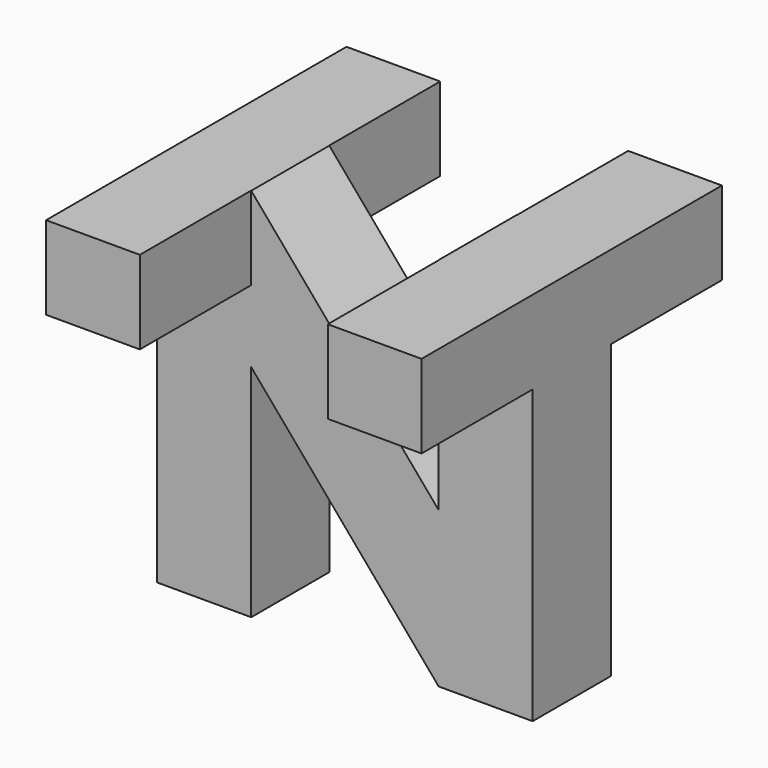
from build123d import *

# Parameters (mm, degrees)
F0_W     = 25.4
F0_H     = 25.4
F1_DEPTH = 25.4
F5_DEPTH = 25.401
F6_DEPTH = 25.401
F7_DEPTH = 25.401


with BuildPart() as f1:
    # F0 (on Top) → F1 (new body)
    with BuildSketch(Plane.XY):
        Rectangle(F0_W, F0_H)
    extrude(amount=F1_DEPTH)

    # F2 (on face) → F5 (intersect, through all)
    with BuildSketch(Plane.XY.offset(25.4)):
        Polygon((-6.357004, 12.7), (-12.7, 12.7), (-12.7, -12.7), (-6.357004, -12.7), (-6.357004, -3.302), (0, -3.302), (6.357004, -3.302), (6.357004, -12.7), (12.7, -12.7), (12.7, 12.7), (6.357004, 12.7), (6.357004, 3.302), (0, 3.302), (-6.357004, 3.302), align=None)
    extrude(amount=-F5_DEPTH, mode=Mode.INTERSECT)

    # F3 (on face) → F6 (intersect, through all)
    with BuildSketch(Plane(origin=(-12.7, 0, 0), x_dir=(0, -1, 0), z_dir=(-1, 0, 0))):
        Polygon((0, 25.4), (-12.7, 25.4), (-12.7, 19.764362), (-3.302, 19.764362), (-3.302, 0), (0, 0), (3.302, 0), (3.302, 19.764362), (12.7, 19.764362), (12.7, 25.4), align=None)
    extrude(amount=-F6_DEPTH, mode=Mode.INTERSECT)

    # F4 (on face) → F7 (intersect, through all)
    with BuildSketch(Plane.XZ.offset(12.7)):
        Polygon((-6.340738, 25.4), (-12.7, 25.4), (-12.7, 0), (-6.340738, 0), (-6.340738, 14.896067), (6.340738, 0), (12.7, 0), (12.7, 25.4), (6.340738, 25.4), (6.340738, 10.503933), align=None)
    extrude(amount=-F7_DEPTH, mode=Mode.INTERSECT)


solid = f1.part
